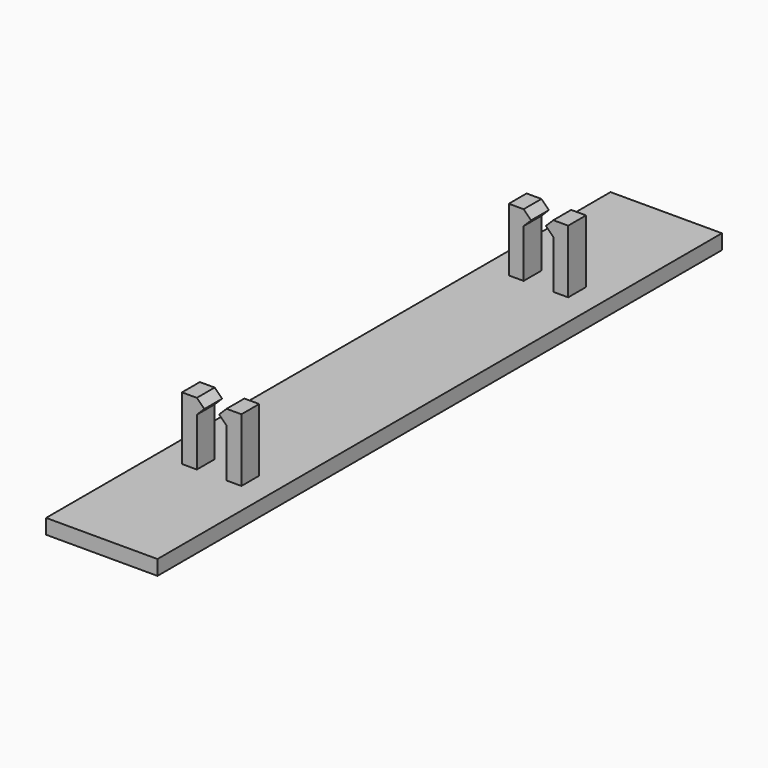
from build123d import *

# Parameters (mm, degrees)
SKETCH_W     = 15
SKETCH_H     = 95
PAD_DEPTH    = 2
PAD001_DEPTH = 1.5


with BuildPart() as part:
    # Sketch → Pad (new body)
    with BuildSketch(Plane.XY):
        Rectangle(SKETCH_W, SKETCH_H)
    extrude(amount=PAD_DEPTH)

    # Sketch001 (on DatumPlane) → Pad001 (join, symmetric)
    with BuildSketch(Plane(origin=(0, 27.5, 0), x_dir=(-1, 0, 0), z_dir=(0, 1, 0))):
        Polygon((-4, 2), (-4, 10.5), (-2, 10.5), (-1, 9.5), (-2, 8.5), (-2, 2), align=None)
        Polygon((4, 2), (4, 10.5), (2, 10.5), (1, 9.5), (2, 8.5), (2, 2), align=None)
    pad001 = extrude(amount=PAD001_DEPTH, both=True)

    # Mirrored: Pad001 across XZ
    add(pad001.mirror(Plane.XZ))


solid = part.part
